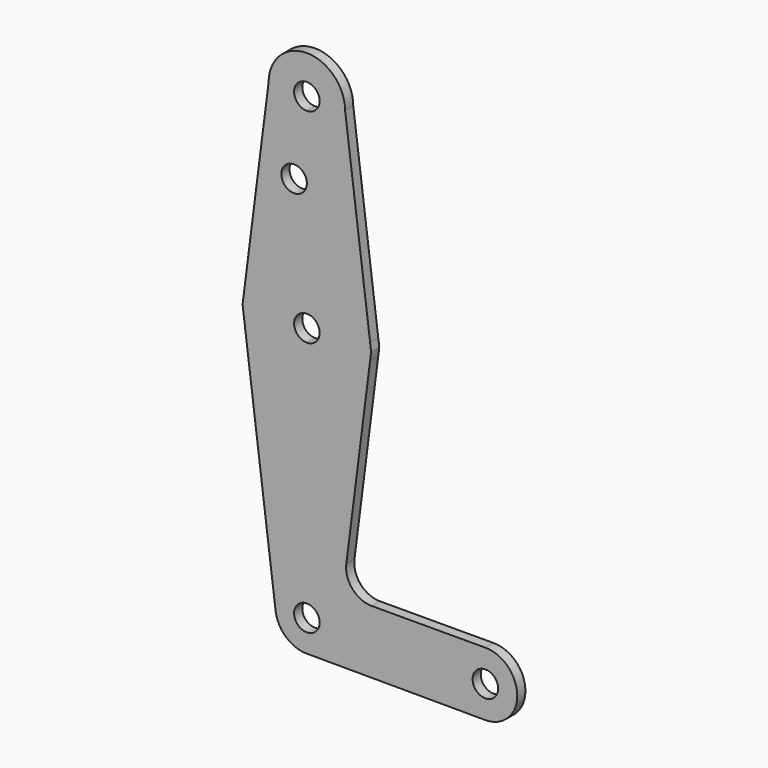
from build123d import *

# Parameters (mm, degrees)
F0_R     = 3.175
F1_DEPTH = 2.54
F2_DEPTH = 2.54


with BuildPart() as f1:
    # F0 (on Front) → F1 (new body)
    with BuildSketch(Plane.XZ):
        with BuildLine():
            ThreePointArc((-9.525, 50.8), (-6.7351920908, 44.0648079092), (0, 41.275))
            ThreePointArc((0, 41.275), (6.7351920908, 44.0648079092), (9.525, 50.8))
            ThreePointArc((9.525, 50.8), (0, 60.325), (-9.525, 50.8))
        make_face()
        with BuildLine():
            ThreePointArc((3.175, 50.8), (2.2450640303, 48.5549359697), (0, 47.625))
            ThreePointArc((0, 47.625), (-2.2450640303, 53.0450640303), (3.175, 50.8))
        make_face(mode=Mode.SUBTRACT)
        with BuildLine():
            ThreePointArc((9.525, 50.8), (6.7351920908, 44.0648079092), (0, 41.275))
            Line((0, 41.275), (0, 31.7220508101))
            Line((0, 31.7220508101), (0, 15.875))
            ThreePointArc((0, 15.875), (10.4912828764, 11.9142187578), (15.747456912, 2.0082892734))
            Line((15.747456912, 2.0082892734), (9.525, 50.8))
        make_face()
        with BuildLine():
            Line((0, 31.7220508101), (0, 41.275))
            ThreePointArc((0, 41.275), (-6.7351920908, 44.0648079092), (-9.525, 50.8))
            Line((-9.525, 50.8), (-15.7474568676, 2.0082896216))
            ThreePointArc((-15.7474568676, 2.0082896216), (-10.4912827447, 11.9142188737), (0, 15.875))
            Line((0, 15.875), (0, 31.7220508101))
        make_face()
        with Locations((-3.175, 31.7220508101)):
            Circle(F0_R, mode=Mode.SUBTRACT)
        with BuildLine():
            ThreePointArc((15.747456912, 2.0082892734), (10.4912828764, 11.9142187578), (0, 15.875))
            Line((0, 15.875), (0, 3.175))
            ThreePointArc((0, 3.175), (2.2450640303, 2.2450640303), (3.175, 0))
            ThreePointArc((3.175, 0), (2.2450640303, -2.2450640303), (0, -3.175))
            Line((0, -3.175), (0, -15.875))
            ThreePointArc((0, -15.875), (10.4912827447, -11.9142188737), (15.7474568676, -2.0082896216))
            ThreePointArc((15.7474568676, -2.0082896216), (15.8430821303, -1.006167786), (15.875, 0))
            ThreePointArc((15.875, 0), (15.8430821414, 1.0061676109), (15.747456912, 2.0082892734))
        make_face()
        with BuildLine():
            Line((0, 3.175), (0, 15.875))
            ThreePointArc((0, 15.875), (-10.4912827447, 11.9142188737), (-15.7474568676, 2.0082896216))
            ThreePointArc((-15.7474568676, 2.0082896216), (-15.875, 8.81e-08), (-15.7474568899, -2.0082894468))
            ThreePointArc((-15.7474568899, -2.0082894468), (-10.4912828108, -11.9142188155), (0, -15.875))
            Line((0, -15.875), (0, -3.175))
            ThreePointArc((0, -3.175), (-3.175, 0), (0, 3.175))
        make_face()
        with BuildLine():
            ThreePointArc((-15.7474568899, -2.0082894468), (-15.875, 8.81e-08), (-15.7474568676, 2.0082896216))
            Line((-15.7474568676, 2.0082896216), (-16.0035761028, 0))
            Line((-16.0035761028, 0), (-15.7474568899, -2.0082894468))
        make_face()
        with BuildLine():
            Line((16.0035761028, 0), (15.747456912, 2.0082892734))
            ThreePointArc((15.747456912, 2.0082892734), (15.8430821414, 1.0061676109), (15.875, 0))
            ThreePointArc((15.875, 0), (15.8430821303, -1.006167786), (15.7474568676, -2.0082896216))
            Line((15.7474568676, -2.0082896216), (16.0035761028, 0))
        make_face()
        with BuildLine():
            ThreePointArc((0, -15.875), (-10.4912828108, -11.9142188155), (-15.7474568899, -2.0082894468))
            Line((-15.7474568899, -2.0082894468), (-7.778839662, -64.4920434004))
            ThreePointArc((-7.778839662, -64.4920434004), (-5.8853183801, -58.3175754555), (0, -55.6581573215))
            Line((0, -55.6581573215), (0, -15.875))
        make_face()
        with BuildLine():
            ThreePointArc((15.7474568676, -2.0082896216), (10.4912827447, -11.9142188737), (0, -15.875))
            Line((0, -15.875), (0, -55.6581573215))
            ThreePointArc((0, -55.6581573215), (5.545020135, -57.954979865), (7.8418426785, -63.5))
            Line((7.8418426785, -63.5), (36.5125, -63.5))
            ThreePointArc((36.5125, -63.5), (38.831302744, -57.8933836055), (44.4329150916, -55.5625183871))
            Line((44.4329150916, -55.5625183871), (16.1347817513, -55.6234282624))
            ThreePointArc((16.1347817513, -55.6234282624), (11.3599454256, -53.4750825896), (9.8221310627, -48.4701272399))
            Line((9.8221310627, -48.4701272399), (15.7474568676, -2.0082896216))
        make_face()
        with BuildLine():
            ThreePointArc((0, -55.6581573215), (-5.8853183801, -58.3175754555), (-7.778839662, -64.4920434004))
            ThreePointArc((-7.778839662, -64.4920434004), (-5.0761507437, -69.4772226177), (0.2809454712, -71.3368084216))
            ThreePointArc((0.2809454712, -71.3368084216), (5.6434752937, -68.9447849548), (7.8418426785, -63.5))
            Line((7.8418426785, -63.5), (3.175, -63.5))
            ThreePointArc((3.175, -63.5), (-2.2450640303, -65.7450640303), (0, -60.325))
            Line((0, -60.325), (0, -55.6581573215))
        make_face()
        with BuildLine():
            ThreePointArc((7.8418426785, -63.5), (5.6434752937, -68.9447849548), (0.2809454712, -71.3368084216))
            Line((0.2809454712, -71.3368084216), (44.4319013308, -71.4374793662))
            ThreePointArc((44.4319013308, -71.4374793662), (38.8309447219, -69.1062575781), (36.5125, -63.5))
            Line((36.5125, -63.5), (7.8418426785, -63.5))
        make_face()
        with BuildLine():
            ThreePointArc((36.5125, -63.5), (38.8309447219, -69.1062575781), (44.4319013308, -71.4374793662))
            ThreePointArc((44.4319013308, -71.4374793662), (50.0562575781, -69.1190552781), (52.3875, -63.5))
            ThreePointArc((52.3875, -63.5), (50.0566163945, -57.881302744), (44.4329150916, -55.5625183871))
            ThreePointArc((44.4329150916, -55.5625183871), (38.831302744, -57.8933836055), (36.5125, -63.5))
        make_face()
        with BuildLine():
            ThreePointArc((47.625, -63.5), (44.45, -66.675), (41.275, -63.5))
            ThreePointArc((41.275, -63.5), (44.45, -60.325), (47.625, -63.5))
        make_face(mode=Mode.SUBTRACT)
    extrude(amount=F1_DEPTH)

    # F0 (on Front) → F2 (join)
    with BuildSketch(Plane.XZ):
        with BuildLine():
            ThreePointArc((7.8418426785, -63.5), (5.545020135, -57.954979865), (0, -55.6581573215))
            Line((0, -55.6581573215), (0, -60.325))
            ThreePointArc((0, -60.325), (2.2450640303, -61.2549359697), (3.175, -63.5))
            Line((3.175, -63.5), (7.8418426785, -63.5))
        make_face()
    extrude(amount=F2_DEPTH)


solid = f1.part
